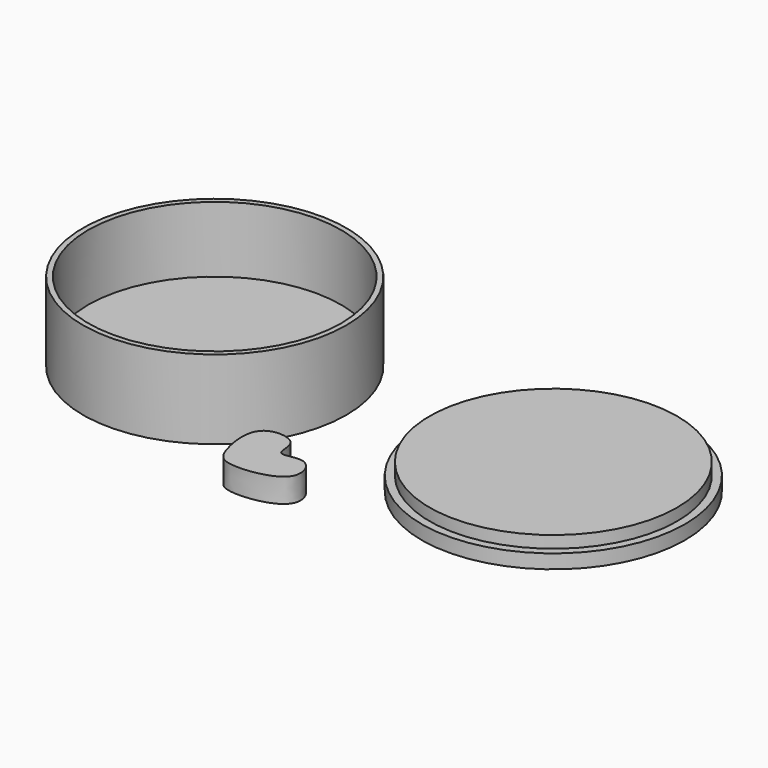
from build123d import *

# Parameters (mm, degrees)
F0_R      = 50
F1_DEPTH  = 30
F2_R      = 48
F3_DEPTH  = 25
F4_R      = 50
F5_DEPTH  = 5.334
F6_R      = 47
F7_DEPTH  = 4.572
F10_DEPTH = 9.144


with BuildPart() as f1:
    # F0 (on Top) → F1 (new body)
    with BuildSketch(Plane.XY):
        Circle(F0_R)
    extrude(amount=F1_DEPTH)

    # F2 (on face) → F3 (cut)
    with BuildSketch(Plane.XY.offset(30)):
        Circle(F2_R)
    extrude(amount=-F3_DEPTH, mode=Mode.SUBTRACT)


with BuildPart() as f5:
    # F4 (on Top) → F5 (new body)
    with BuildSketch(Plane.XY):
        with Locations((128.5643698645, 0)):
            Circle(F4_R)
    extrude(amount=F5_DEPTH)

    # F6 (on face) → F7 (join)
    with BuildSketch(Plane.XY.offset(5.334)):
        with Locations((128.5643698645, 0)):
            Circle(F6_R)
    extrude(amount=F7_DEPTH)


with BuildPart() as f10:
    # F8 (on Top) → F10 (new body)
    with BuildSketch(Plane.XY):
        with BuildLine():
            add(Edge.make_bspline(
                [(47.3970100284, -54.0826357901), (45.5771799385, -49.2231335643), (42.9430653457, -33.7869758737), (61.9238546558, -35.442631761), (58.8826161694, -47.9144089127), (71.0037238079, -41.5047722569), (77.6157174697, -57.9473224184), (52.4636281566, -61.6617105691), (48.7020897439, -57.5675972807), (47.3970100284, -54.0826357901)],
                knots=[0, 0, 0, 0, 0.173429919, 0.3162438477, 0.4311141836, 0.5537396811, 0.6877075935, 0.8756258232, 1, 1, 1, 1], degree=3))
        make_face()
    extrude(amount=F10_DEPTH)


solid = Compound([f1.part, f5.part, f10.part])
